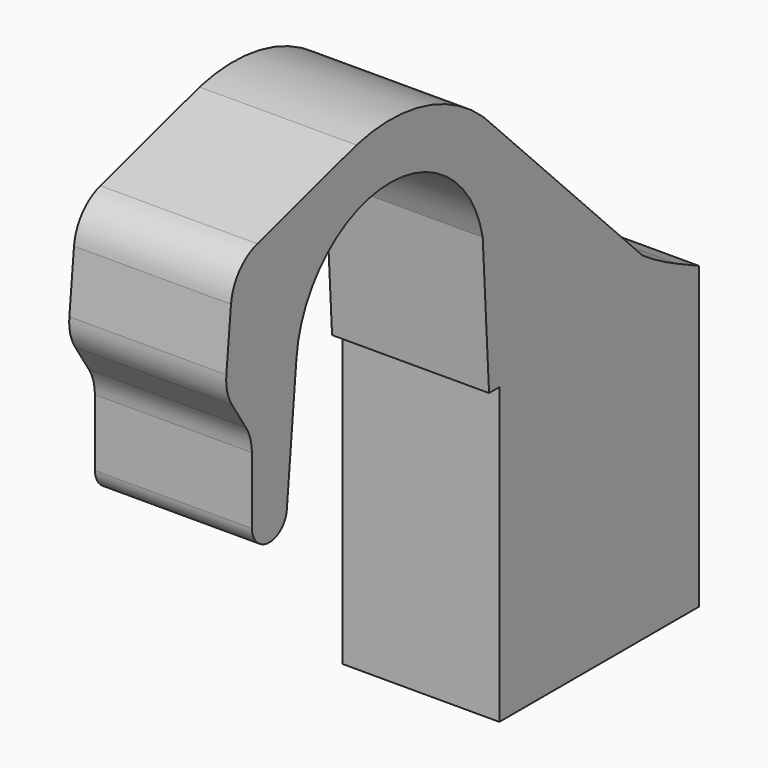
from build123d import *

# Parameters (mm, degrees)
F1_DEPTH = 34


with BuildPart() as f1:
    # F0 (on Right) → F1 (new body)
    with BuildSketch(Plane.YZ):
        with BuildLine():
            ThreePointArc((-26.890983, 1800.32203), (-43.892365, 1811.317181), (-64.131767, 1811.871154))
            Line((-64.131767, 1811.871154), (-90.982187, 1803.963156))
            ThreePointArc((-90.982187, 1803.963156), (-95.864249, 1800.742189), (-98.109715, 1795.341538))
            Line((-98.109715, 1795.341538), (-99.371331, 1782.409853))
            ThreePointArc((-99.371331, 1782.409853), (-99.138499, 1779.088701), (-97.828286, 1776.028048))
            Line((-97.828286, 1776.028048), (-94.050036, 1770.155742))
            ThreePointArc((-94.050036, 1770.155742), (-92.865546, 1767.564766), (-92.459738, 1764.744928))
            Line((-92.459738, 1764.744928), (-92.459738, 1750.292804))
            ThreePointArc((-92.459738, 1750.292804), (-87.867403, 1745.703047), (-83, 1750))
            Line((-83, 1750), (-80.388879, 1777.877985))
            ThreePointArc((-80.388879, 1777.877985), (-56.279235, 1800.967893), (-29.977198, 1780.41013))
            Line((-29.977198, 1780.41013), (-28.255004, 1750))
            Line((-28.255004, 1750), (-25.470103, 1750))
            Line((-25.470103, 1750), (-25.470103, 1686.175056))
            Line((-25.470103, 1686.175056), (28.529897, 1686.175056))
            Line((28.529897, 1686.175056), (28.529897, 1751.175056))
            Line((28.529897, 1751.175056), (22.537481, 1754.025714))
            ThreePointArc((22.537481, 1754.025714), (17.84148, 1756.482182), (13.345133, 1759.28745))
            Line((13.345133, 1759.28745), (-26.890983, 1800.32203))
        make_face()
    extrude(amount=F1_DEPTH)


solid = f1.part
